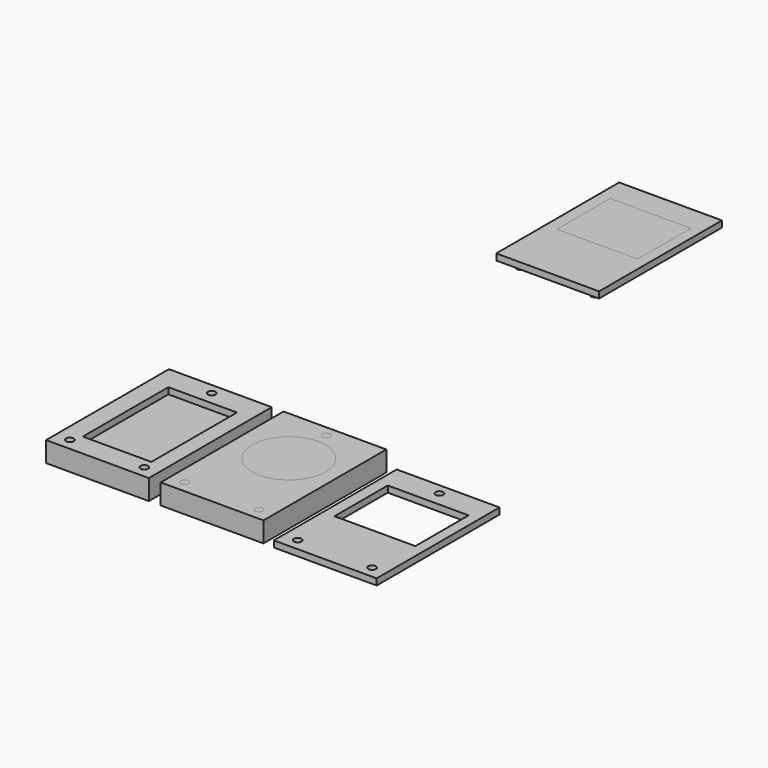
from build123d import *

# Parameters (mm, degrees)
EXTRUDE005_DEPTH = 5
EXTRUDE004_DEPTH = 5
EXTRUDE002_DEPTH = 16
EXTRUDE001_DEPTH = 16
EXTRUDE003_DEPTH = 16
EXTRUDE_DEPTH    = 16
EXTRUDE010_DEPTH = 16
EXTRUDE011_DEPTH = 16
EXTRUDE012_DEPTH = 16
EXTRUDE013_DEPTH = 16
EXTRUDE016_DEPTH = 5
EXTRUDE015_DEPTH = 5
EXTRUDE014_DEPTH = 16
EXTRUDE007_DEPTH = 16
EXTRUDE006_DEPTH = 16
EXTRUDE008_DEPTH = 16
EXTRUDE009_DEPTH = 16
EXTRUDE017_DEPTH = 5
EXTRUDE018_DEPTH = 5
EXTRUDE019_DEPTH = 5
EXTRUDE020_DEPTH = 5
EXTRUDE021_DEPTH = 5
EXTRUDE026_DEPTH = 5
EXTRUDE023_DEPTH = 5
EXTRUDE022_DEPTH = 5
EXTRUDE024_DEPTH = 5
EXTRUDE025_DEPTH = 5


with BuildPart() as extrude005:
    with BuildSketch(Plane(origin=(49.925551, -527.935599, 0), x_dir=(0, -1, 0), z_dir=(0, 0, -1))):
        with BuildLine():
            add(Edge.make_bspline(
                [(-42.137909, 27.028042), (-42.137909, -27.028042)],
                knots=[0, 0, 191.537306, 191.537306], degree=1))
            add(Edge.make_bspline(
                [(-42.137909, -27.028042), (42.137909, -27.028042)],
                knots=[0, 0, 298.6151, 298.6151], degree=1))
            add(Edge.make_bspline(
                [(42.137909, -27.028042), (42.137909, 27.028042)],
                knots=[0, 0, 191.537306, 191.537306], degree=1))
            add(Edge.make_bspline(
                [(42.137909, 27.028042), (-42.137909, 27.028042)],
                knots=[0, 0, 298.6151, 298.6151], degree=1))
        make_face()
    extrude(amount=-EXTRUDE005_DEPTH)


with BuildPart() as extrude004:
    with BuildSketch(Plane(origin=(49.925551, -527.935599, 0), x_dir=(0, -1, 0), z_dir=(0, 0, -1))):
        with BuildLine():
            add(Edge.make_bspline(
                [(-42.137909, 27.028042), (-42.137909, -27.028042)],
                knots=[0, 0, 191.537306, 191.537306], degree=1))
            add(Edge.make_bspline(
                [(-42.137909, -27.028042), (42.137909, -27.028042)],
                knots=[0, 0, 298.6151, 298.6151], degree=1))
            add(Edge.make_bspline(
                [(42.137909, -27.028042), (42.137909, 27.028042)],
                knots=[0, 0, 191.537306, 191.537306], degree=1))
            add(Edge.make_bspline(
                [(42.137909, 27.028042), (-42.137909, 27.028042)],
                knots=[0, 0, 298.6151, 298.6151], degree=1))
        make_face()
    extrude(amount=-EXTRUDE004_DEPTH)


with BuildPart() as extrude004_1:
    # Extrude004 placement: moved
    add(extrude004.part.moved(Location((0, 0, 11))))


with BuildPart() as extrude002:
    # path3023_81_4 → Extrude002 (new body)
    with BuildSketch(Plane(origin=(78.088484, -578.441793, 0), x_dir=(0, -1, 0), z_dir=(0, 0, -1))):
        with BuildLine():
            add(Edge.make_bspline(
                [(-3.023292, 1e-06), (-3.023292, -1.669718), (-1.669717, -3.023291), (0, -3.023291)],
                knots=[0, 0, 0, 0, 1, 1, 1, 1], degree=3))
            add(Edge.make_bspline(
                [(0, -3.023291), (1.669719, -3.023291), (3.023292, -1.669718), (3.023292, 1e-06)],
                knots=[0, 0, 0, 0, 1, 1, 1, 1], degree=3))
            add(Edge.make_bspline(
                [(3.023292, 1e-06), (3.023292, 1.669718), (1.669719, 3.023291), (0, 3.023291)],
                knots=[0, 0, 0, 0, 1, 1, 1, 1], degree=3))
            add(Edge.make_bspline(
                [(0, 3.023291), (-1.669717, 3.023291), (-3.023292, 1.669718), (-3.023292, 1e-06)],
                knots=[0, 0, 0, 0, 1, 1, 1, 1], degree=3))
        make_face()
    extrude(amount=-EXTRUDE002_DEPTH)


with BuildPart() as fusion:
    # path3023_81 → Extrude001 (new body)
    with BuildSketch(Plane(origin=(19.461192, -578.441793, 0), x_dir=(0, -1, 0), z_dir=(0, 0, -1))):
        with BuildLine():
            add(Edge.make_bspline(
                [(-3.023292, 1e-06), (-3.023292, -1.669718), (-1.669717, -3.023291), (0, -3.023291)],
                knots=[0, 0, 0, 0, 1, 1, 1, 1], degree=3))
            add(Edge.make_bspline(
                [(0, -3.023291), (1.669719, -3.023291), (3.023292, -1.669718), (3.023292, 1e-06)],
                knots=[0, 0, 0, 0, 1, 1, 1, 1], degree=3))
            add(Edge.make_bspline(
                [(3.023292, 1e-06), (3.023292, 1.669718), (1.669719, 3.023291), (0, 3.023291)],
                knots=[0, 0, 0, 0, 1, 1, 1, 1], degree=3))
            add(Edge.make_bspline(
                [(0, 3.023291), (-1.669717, 3.023291), (-3.023292, 1.669718), (-3.023292, 1e-06)],
                knots=[0, 0, 0, 0, 1, 1, 1, 1], degree=3))
        make_face()
    extrude(amount=-EXTRUDE001_DEPTH)

    # Fusion: union Extrude002
    add(extrude002.part)


with BuildPart() as fusion001:
    # path3023_81_8 → Extrude003 (new body)
    with BuildSketch(Plane(origin=(48.708925, -475.380728, 0), x_dir=(0, -1, 0), z_dir=(0, 0, -1))):
        with BuildLine():
            add(Edge.make_bspline(
                [(-3.023292, 1e-06), (-3.023292, -1.669718), (-1.669717, -3.023291), (0, -3.023291)],
                knots=[0, 0, 0, 0, 1, 1, 1, 1], degree=3))
            add(Edge.make_bspline(
                [(0, -3.023291), (1.669719, -3.023291), (3.023292, -1.669718), (3.023292, 1e-06)],
                knots=[0, 0, 0, 0, 1, 1, 1, 1], degree=3))
            add(Edge.make_bspline(
                [(3.023292, 1e-06), (3.023292, 1.669718), (1.669719, 3.023291), (0, 3.023291)],
                knots=[0, 0, 0, 0, 1, 1, 1, 1], degree=3))
            add(Edge.make_bspline(
                [(0, 3.023291), (-1.669717, 3.023291), (-3.023292, 1.669718), (-3.023292, 1e-06)],
                knots=[0, 0, 0, 0, 1, 1, 1, 1], degree=3))
        make_face()
    extrude(amount=-EXTRUDE003_DEPTH)

    # Fusion001: union Fusion
    add(fusion.part)


with BuildPart() as base:
    with BuildSketch(Plane(origin=(48.690025, -527.325026, 0), x_dir=(0, -1, 0), z_dir=(0, 0, -1))):
        with BuildLine():
            add(Edge.make_bspline(
                [(60.488886, 40.488881), (-60.488886, 40.488881)],
                knots=[0, 0, 428.6614, 428.6614], degree=1))
            add(Edge.make_bspline(
                [(-60.488886, 40.488881), (-60.488886, -40.488881)],
                knots=[0, 0, 286.92908, 286.92908], degree=1))
            add(Edge.make_bspline(
                [(-60.488886, -40.488881), (60.488886, -40.488881)],
                knots=[0, 0, 428.6614, 428.6614], degree=1))
            add(Edge.make_bspline(
                [(60.488886, -40.488881), (60.488886, 40.488881)],
                knots=[0, 0, 286.92908, 286.92908], degree=1))
        make_face()
    extrude(amount=-EXTRUDE_DEPTH)

    # Cut: cut Fusion001
    add(fusion001.part, mode=Mode.SUBTRACT)

    # Cut001: cut Extrude004
    add(extrude004_1.part, mode=Mode.SUBTRACT)


with BuildPart() as extrude010:
    # path3023_81_2 → Extrude010 (new body)
    with BuildSketch(Plane(origin=(109.738414, -578.441788, 0), x_dir=(0, -1, 0), z_dir=(0, 0, -1))):
        with BuildLine():
            add(Edge.make_bspline(
                [(-3.023292, 1e-06), (-3.023292, -3.023291), (0, -3.023291)],
                knots=[0, 0, 0, 1.570796, 1.570796, 1.570796], degree=2, weights=[1, 0.707107, 1]))
            add(Edge.make_bspline(
                [(0, -3.023291), (3.023292, -3.023291), (3.023292, 1e-06)],
                knots=[0, 0, 0, 1.570796, 1.570796, 1.570796], degree=2, weights=[1, 0.707107, 1]))
            add(Edge.make_bspline(
                [(3.023292, 1e-06), (3.02329, 3.023291), (0, 3.023291)],
                knots=[0, 0, 0, 1.570796, 1.570796, 1.570796], degree=2, weights=[1, 0.707107, 1]))
            add(Edge.make_bspline(
                [(0, 3.023291), (-3.02329, 3.023291), (-3.023292, 1e-06)],
                knots=[0, 0, 0, 1.570796, 1.570796, 1.570796], degree=2, weights=[1, 0.707107, 1]))
        make_face()
    extrude(amount=-EXTRUDE010_DEPTH)


with BuildPart() as extrude011:
    # path3023_81_4_9 → Extrude011 (new body)
    with BuildSketch(Plane(origin=(168.365706, -578.441788, 0), x_dir=(0, -1, 0), z_dir=(0, 0, -1))):
        with BuildLine():
            add(Edge.make_bspline(
                [(-3.023292, 1e-06), (-3.023292, -3.023291), (0, -3.023291)],
                knots=[0, 0, 0, 1.570796, 1.570796, 1.570796], degree=2, weights=[1, 0.707107, 1]))
            add(Edge.make_bspline(
                [(0, -3.023291), (3.023292, -3.023291), (3.023292, 1e-06)],
                knots=[0, 0, 0, 1.570796, 1.570796, 1.570796], degree=2, weights=[1, 0.707107, 1]))
            add(Edge.make_bspline(
                [(3.023292, 1e-06), (3.02329, 3.023291), (0, 3.023291)],
                knots=[0, 0, 0, 1.570796, 1.570796, 1.570796], degree=2, weights=[1, 0.707107, 1]))
            add(Edge.make_bspline(
                [(0, 3.023291), (-3.02329, 3.023291), (-3.023292, 1e-06)],
                knots=[0, 0, 0, 1.570796, 1.570796, 1.570796], degree=2, weights=[1, 0.707107, 1]))
        make_face()
    extrude(amount=-EXTRUDE011_DEPTH)


with BuildPart() as extrude012:
    # path3023_81_8_6 → Extrude012 (new body)
    with BuildSketch(Plane(origin=(138.986161, -475.380725, 0), x_dir=(0, -1, 0), z_dir=(0, 0, -1))):
        with BuildLine():
            add(Edge.make_bspline(
                [(-3.023292, 1e-06), (-3.023292, -3.023291), (0, -3.023291)],
                knots=[0, 0, 0, 1.570796, 1.570796, 1.570796], degree=2, weights=[1, 0.707107, 1]))
            add(Edge.make_bspline(
                [(0, -3.023291), (3.023292, -3.023291), (3.023292, 1e-06)],
                knots=[0, 0, 0, 1.570796, 1.570796, 1.570796], degree=2, weights=[1, 0.707107, 1]))
            add(Edge.make_bspline(
                [(3.023292, 1e-06), (3.02329, 3.023291), (0, 3.023291)],
                knots=[0, 0, 0, 1.570796, 1.570796, 1.570796], degree=2, weights=[1, 0.707107, 1]))
            add(Edge.make_bspline(
                [(0, 3.023291), (-3.02329, 3.023291), (-3.023292, 1e-06)],
                knots=[0, 0, 0, 1.570796, 1.570796, 1.570796], degree=2, weights=[1, 0.707107, 1]))
        make_face()
    extrude(amount=-EXTRUDE012_DEPTH)


with BuildPart() as extrude013:
    with BuildSketch(Plane(origin=(138.967264, -527.325043, 0), x_dir=(0, -1, 0), z_dir=(0, 0, -1))):
        with BuildLine():
            add(Edge.make_bspline(
                [(60.488884, 40.488881), (-60.488884, 40.488881)],
                knots=[0, 0, 428.66138, 428.66138], degree=1))
            add(Edge.make_bspline(
                [(-60.488884, 40.488881), (-60.488884, -40.488881)],
                knots=[0, 0, 286.92908, 286.92908], degree=1))
            add(Edge.make_bspline(
                [(-60.488884, -40.488881), (60.488884, -40.488881)],
                knots=[0, 0, 428.66138, 428.66138], degree=1))
            add(Edge.make_bspline(
                [(60.488884, -40.488881), (60.488884, 40.488881)],
                knots=[0, 0, 286.92908, 286.92908], degree=1))
        make_face()
    extrude(amount=-EXTRUDE013_DEPTH)


with BuildPart() as extrude016:
    # path2987_5_4_1_3 → Extrude016 (new body)
    with BuildSketch(Plane(origin=(140.017543, -513.55047, 0), x_dir=(0, -1, 0), z_dir=(0, 0, -1))):
        with BuildLine():
            add(Edge.make_bspline(
                [(-28.869968, 2e-06), (-28.86997, -28.869967), (-2e-06, -28.869968)],
                knots=[0, 0, 0, 1.570796, 1.570796, 1.570796], degree=2, weights=[1, 0.707107, 1]))
            add(Edge.make_bspline(
                [(-2e-06, -28.869968), (28.86997, -28.86997), (28.869968, 2e-06)],
                knots=[0, 0, 0, 1.570796, 1.570796, 1.570796], degree=2, weights=[1, 0.707107, 1]))
            add(Edge.make_bspline(
                [(28.869968, 2e-06), (28.869967, 28.86997), (-2e-06, 28.869968)],
                knots=[0, 0, 0, 1.570796, 1.570796, 1.570796], degree=2, weights=[1, 0.707107, 1]))
            add(Edge.make_bspline(
                [(-2e-06, 28.869968), (-28.869967, 28.869967), (-28.869968, 2e-06)],
                knots=[0, 0, 0, 1.570796, 1.570796, 1.570796], degree=2, weights=[1, 0.707107, 1]))
        make_face()
    extrude(amount=-EXTRUDE016_DEPTH)


with BuildPart() as extrude015:
    # path2987_5_4_1_3 → Extrude015 (new body)
    with BuildSketch(Plane(origin=(140.017543, -513.55047, 0), x_dir=(0, -1, 0), z_dir=(0, 0, -1))):
        with BuildLine():
            add(Edge.make_bspline(
                [(-28.869968, 2e-06), (-28.86997, -28.869967), (-2e-06, -28.869968)],
                knots=[0, 0, 0, 1.570796, 1.570796, 1.570796], degree=2, weights=[1, 0.707107, 1]))
            add(Edge.make_bspline(
                [(-2e-06, -28.869968), (28.86997, -28.86997), (28.869968, 2e-06)],
                knots=[0, 0, 0, 1.570796, 1.570796, 1.570796], degree=2, weights=[1, 0.707107, 1]))
            add(Edge.make_bspline(
                [(28.869968, 2e-06), (28.869967, 28.86997), (-2e-06, 28.869968)],
                knots=[0, 0, 0, 1.570796, 1.570796, 1.570796], degree=2, weights=[1, 0.707107, 1]))
            add(Edge.make_bspline(
                [(-2e-06, 28.869968), (-28.869967, 28.869967), (-28.869968, 2e-06)],
                knots=[0, 0, 0, 1.570796, 1.570796, 1.570796], degree=2, weights=[1, 0.707107, 1]))
        make_face()
    extrude(amount=-EXTRUDE015_DEPTH)


with BuildPart() as extrude015_1:
    # Extrude015 placement: moved
    add(extrude015.part.moved(Location((0, 0, 11))))


with BuildPart() as extrude014:
    with BuildSketch(Plane(origin=(140.017543, -513.55047, 0), x_dir=(0, -1, 0), z_dir=(0, 0, -1))):
        with BuildLine():
            add(Edge.make_bspline(
                [(-20.89852, 1e-06), (-20.898521, -20.898518), (-1e-06, -20.89852)],
                knots=[0, 0, 0, 1.570796, 1.570796, 1.570796], degree=2, weights=[1, 0.707107, 1]))
            add(Edge.make_bspline(
                [(-1e-06, -20.89852), (20.898521, -20.898521), (20.89852, 1e-06)],
                knots=[0, 0, 0, 1.570796, 1.570796, 1.570796], degree=2, weights=[1, 0.707107, 1]))
            add(Edge.make_bspline(
                [(20.89852, 1e-06), (20.898518, 20.898521), (-1e-06, 20.89852)],
                knots=[0, 0, 0, 1.570796, 1.570796, 1.570796], degree=2, weights=[1, 0.707107, 1]))
            add(Edge.make_bspline(
                [(-1e-06, 20.89852), (-20.898518, 20.898518), (-20.89852, 1e-06)],
                knots=[0, 0, 0, 1.570796, 1.570796, 1.570796], degree=2, weights=[1, 0.707107, 1]))
        make_face()
    extrude(amount=-EXTRUDE014_DEPTH)


with BuildPart() as extrude007:
    # path3023_81_4_9 → Extrude007 (new body)
    with BuildSketch(Plane(origin=(168.365706, -578.441788, 0), x_dir=(0, -1, 0), z_dir=(0, 0, -1))):
        with BuildLine():
            add(Edge.make_bspline(
                [(-3.023292, 1e-06), (-3.023292, -3.023291), (0, -3.023291)],
                knots=[0, 0, 0, 1.570796, 1.570796, 1.570796], degree=2, weights=[1, 0.707107, 1]))
            add(Edge.make_bspline(
                [(0, -3.023291), (3.023292, -3.023291), (3.023292, 1e-06)],
                knots=[0, 0, 0, 1.570796, 1.570796, 1.570796], degree=2, weights=[1, 0.707107, 1]))
            add(Edge.make_bspline(
                [(3.023292, 1e-06), (3.02329, 3.023291), (0, 3.023291)],
                knots=[0, 0, 0, 1.570796, 1.570796, 1.570796], degree=2, weights=[1, 0.707107, 1]))
            add(Edge.make_bspline(
                [(0, 3.023291), (-3.02329, 3.023291), (-3.023292, 1e-06)],
                knots=[0, 0, 0, 1.570796, 1.570796, 1.570796], degree=2, weights=[1, 0.707107, 1]))
        make_face()
    extrude(amount=-EXTRUDE007_DEPTH)


with BuildPart() as fusion002:
    # path3023_81_2 → Extrude006 (new body)
    with BuildSketch(Plane(origin=(109.738414, -578.441788, 0), x_dir=(0, -1, 0), z_dir=(0, 0, -1))):
        with BuildLine():
            add(Edge.make_bspline(
                [(-3.023292, 1e-06), (-3.023292, -3.023291), (0, -3.023291)],
                knots=[0, 0, 0, 1.570796, 1.570796, 1.570796], degree=2, weights=[1, 0.707107, 1]))
            add(Edge.make_bspline(
                [(0, -3.023291), (3.023292, -3.023291), (3.023292, 1e-06)],
                knots=[0, 0, 0, 1.570796, 1.570796, 1.570796], degree=2, weights=[1, 0.707107, 1]))
            add(Edge.make_bspline(
                [(3.023292, 1e-06), (3.02329, 3.023291), (0, 3.023291)],
                knots=[0, 0, 0, 1.570796, 1.570796, 1.570796], degree=2, weights=[1, 0.707107, 1]))
            add(Edge.make_bspline(
                [(0, 3.023291), (-3.02329, 3.023291), (-3.023292, 1e-06)],
                knots=[0, 0, 0, 1.570796, 1.570796, 1.570796], degree=2, weights=[1, 0.707107, 1]))
        make_face()
    extrude(amount=-EXTRUDE006_DEPTH)

    # Fusion002: union Extrude007
    add(extrude007.part)


with BuildPart() as fusion003:
    # path3023_81_8_6 → Extrude008 (new body)
    with BuildSketch(Plane(origin=(138.986161, -475.380725, 0), x_dir=(0, -1, 0), z_dir=(0, 0, -1))):
        with BuildLine():
            add(Edge.make_bspline(
                [(-3.023292, 1e-06), (-3.023292, -3.023291), (0, -3.023291)],
                knots=[0, 0, 0, 1.570796, 1.570796, 1.570796], degree=2, weights=[1, 0.707107, 1]))
            add(Edge.make_bspline(
                [(0, -3.023291), (3.023292, -3.023291), (3.023292, 1e-06)],
                knots=[0, 0, 0, 1.570796, 1.570796, 1.570796], degree=2, weights=[1, 0.707107, 1]))
            add(Edge.make_bspline(
                [(3.023292, 1e-06), (3.02329, 3.023291), (0, 3.023291)],
                knots=[0, 0, 0, 1.570796, 1.570796, 1.570796], degree=2, weights=[1, 0.707107, 1]))
            add(Edge.make_bspline(
                [(0, 3.023291), (-3.02329, 3.023291), (-3.023292, 1e-06)],
                knots=[0, 0, 0, 1.570796, 1.570796, 1.570796], degree=2, weights=[1, 0.707107, 1]))
        make_face()
    extrude(amount=-EXTRUDE008_DEPTH)

    # Fusion003: union Fusion002
    add(fusion002.part)


with BuildPart() as middle:
    with BuildSketch(Plane(origin=(138.967264, -527.325043, 0), x_dir=(0, -1, 0), z_dir=(0, 0, -1))):
        with BuildLine():
            add(Edge.make_bspline(
                [(60.488884, 40.488881), (-60.488884, 40.488881)],
                knots=[0, 0, 428.66138, 428.66138], degree=1))
            add(Edge.make_bspline(
                [(-60.488884, 40.488881), (-60.488884, -40.488881)],
                knots=[0, 0, 286.92908, 286.92908], degree=1))
            add(Edge.make_bspline(
                [(-60.488884, -40.488881), (60.488884, -40.488881)],
                knots=[0, 0, 428.66138, 428.66138], degree=1))
            add(Edge.make_bspline(
                [(60.488884, -40.488881), (60.488884, 40.488881)],
                knots=[0, 0, 286.92908, 286.92908], degree=1))
        make_face()
    extrude(amount=-EXTRUDE009_DEPTH)

    # Cut002: cut Fusion003
    add(fusion003.part, mode=Mode.SUBTRACT)

    # Cut003: cut Extrude014
    add(extrude014.part, mode=Mode.SUBTRACT)

    # Cut004: cut Extrude015
    add(extrude015_1.part, mode=Mode.SUBTRACT)


with BuildPart() as extrude017:
    with BuildSketch(Plane(origin=(67.130731, -194.739681, 0), x_dir=(0, -1, 0), z_dir=(0, 0, -1))):
        with BuildLine():
            add(Edge.make_bspline(
                [(3.023292, 0), (3.023292, -3.023292), (0, -3.023292), (-3.023292, -3.023292), (-3.023292, 0)],
                knots=[3.141593, 3.141593, 3.141593, 4.712389, 4.712389, 6.283185, 6.283185, 6.283185], degree=2, weights=[1, 0.707107, 1, 0.707107, 1]))
            add(Edge.make_bspline(
                [(-3.023292, 0), (-3.023292, 3.023292), (0, 3.023292), (3.023292, 3.023292), (3.023292, 0)],
                knots=[0, 0, 0, 1.570796, 1.570796, 3.141593, 3.141593, 3.141593], degree=2, weights=[1, 0.707107, 1, 0.707107, 1]))
        make_face()
    extrude(amount=EXTRUDE017_DEPTH)


with BuildPart() as extrude018:
    with BuildSketch(Plane(origin=(125.758023, -194.739681, 0), x_dir=(0, -1, 0), z_dir=(0, 0, -1))):
        with BuildLine():
            add(Edge.make_bspline(
                [(3.023292, 0), (3.023292, -3.023292), (0, -3.023292), (-3.023292, -3.023292), (-3.023292, 0)],
                knots=[3.141593, 3.141593, 3.141593, 4.712389, 4.712389, 6.283185, 6.283185, 6.283185], degree=2, weights=[1, 0.707107, 1, 0.707107, 1]))
            add(Edge.make_bspline(
                [(-3.023292, 0), (-3.023292, 3.023292), (0, 3.023292), (3.023292, 3.023292), (3.023292, 0)],
                knots=[0, 0, 0, 1.570796, 1.570796, 3.141593, 3.141593, 3.141593], degree=2, weights=[1, 0.707107, 1, 0.707107, 1]))
        make_face()
    extrude(amount=EXTRUDE018_DEPTH)


with BuildPart() as extrude019:
    with BuildSketch(Plane(origin=(96.378478, -91.678616, 0), x_dir=(0, -1, 0), z_dir=(0, 0, -1))):
        with BuildLine():
            add(Edge.make_bspline(
                [(3.023292, 0), (3.023292, -3.023292), (0, -3.023292), (-3.023292, -3.023292), (-3.023292, 0)],
                knots=[3.141593, 3.141593, 3.141593, 4.712389, 4.712389, 6.283185, 6.283185, 6.283185], degree=2, weights=[1, 0.707107, 1, 0.707107, 1]))
            add(Edge.make_bspline(
                [(-3.023292, 0), (-3.023292, 3.023292), (0, 3.023292), (3.023292, 3.023292), (3.023292, 0)],
                knots=[0, 0, 0, 1.570796, 1.570796, 3.141593, 3.141593, 3.141593], degree=2, weights=[1, 0.707107, 1, 0.707107, 1]))
        make_face()
    extrude(amount=EXTRUDE019_DEPTH)


with BuildPart() as extrude020:
    with BuildSketch(Plane(origin=(96.359585, -143.622928, 0), x_dir=(0, -1, 0), z_dir=(0, 0, -1))):
        with BuildLine():
            add(Edge.make_bspline(
                [(60.488884, 40.488881), (-60.488884, 40.488881)],
                knots=[0, 0, 428.66138, 428.66138], degree=1))
            add(Edge.make_bspline(
                [(-60.488884, 40.488881), (-60.488884, -40.488881)],
                knots=[0, 0, 286.92908, 286.92908], degree=1))
            add(Edge.make_bspline(
                [(-60.488884, -40.488881), (60.488884, -40.488881)],
                knots=[0, 0, 428.66138, 428.66138], degree=1))
            add(Edge.make_bspline(
                [(60.488884, -40.488881), (60.488884, 40.488881)],
                knots=[0, 0, 286.92908, 286.92908], degree=1))
        make_face()
    extrude(amount=-EXTRUDE020_DEPTH)


with BuildPart() as extrude021:
    with BuildSketch(Plane(origin=(96.75655, -129.484847, 0), x_dir=(0, -1, 0), z_dir=(0, 0, -1))):
        with BuildLine():
            add(Edge.make_bspline(
                [(26.232779, 31.84628), (-26.232779, 31.84628)],
                knots=[0, 0, 185.90158, 185.90158], degree=1))
            add(Edge.make_bspline(
                [(-26.232779, 31.84628), (-26.232779, -31.84628)],
                knots=[0, 0, 225.6823, 225.6823], degree=1))
            add(Edge.make_bspline(
                [(-26.232779, -31.84628), (26.232779, -31.84628)],
                knots=[0, 0, 185.90158, 185.90158], degree=1))
            add(Edge.make_bspline(
                [(26.232779, -31.84628), (26.232779, 31.84628)],
                knots=[0, 0, 225.6823, 225.6823], degree=1))
        make_face()
    extrude(amount=-EXTRUDE021_DEPTH)


with BuildPart() as extrude026:
    with BuildSketch(Plane(origin=(96.75655, -129.484847, 0), x_dir=(0, -1, 0), z_dir=(0, 0, -1))):
        with BuildLine():
            add(Edge.make_bspline(
                [(26.232779, 31.84628), (-26.232779, 31.84628)],
                knots=[0, 0, 185.90158, 185.90158], degree=1))
            add(Edge.make_bspline(
                [(-26.232779, 31.84628), (-26.232779, -31.84628)],
                knots=[0, 0, 225.6823, 225.6823], degree=1))
            add(Edge.make_bspline(
                [(-26.232779, -31.84628), (26.232779, -31.84628)],
                knots=[0, 0, 185.90158, 185.90158], degree=1))
            add(Edge.make_bspline(
                [(26.232779, -31.84628), (26.232779, 31.84628)],
                knots=[0, 0, 225.6823, 225.6823], degree=1))
        make_face()
    extrude(amount=-EXTRUDE026_DEPTH)


with BuildPart() as extrude023:
    with BuildSketch(Plane(origin=(125.758023, -194.739681, 0), x_dir=(0, -1, 0), z_dir=(0, 0, -1))):
        with BuildLine():
            add(Edge.make_bspline(
                [(3.023292, 0), (3.023292, -3.023292), (0, -3.023292), (-3.023292, -3.023292), (-3.023292, 0)],
                knots=[3.141593, 3.141593, 3.141593, 4.712389, 4.712389, 6.283185, 6.283185, 6.283185], degree=2, weights=[1, 0.707107, 1, 0.707107, 1]))
            add(Edge.make_bspline(
                [(-3.023292, 0), (-3.023292, 3.023292), (0, 3.023292), (3.023292, 3.023292), (3.023292, 0)],
                knots=[0, 0, 0, 1.570796, 1.570796, 3.141593, 3.141593, 3.141593], degree=2, weights=[1, 0.707107, 1, 0.707107, 1]))
        make_face()
    extrude(amount=EXTRUDE023_DEPTH)


with BuildPart() as fusion004:
    with BuildSketch(Plane(origin=(67.130731, -194.739681, 0), x_dir=(0, -1, 0), z_dir=(0, 0, -1))):
        with BuildLine():
            add(Edge.make_bspline(
                [(3.023292, 0), (3.023292, -3.023292), (0, -3.023292), (-3.023292, -3.023292), (-3.023292, 0)],
                knots=[3.141593, 3.141593, 3.141593, 4.712389, 4.712389, 6.283185, 6.283185, 6.283185], degree=2, weights=[1, 0.707107, 1, 0.707107, 1]))
            add(Edge.make_bspline(
                [(-3.023292, 0), (-3.023292, 3.023292), (0, 3.023292), (3.023292, 3.023292), (3.023292, 0)],
                knots=[0, 0, 0, 1.570796, 1.570796, 3.141593, 3.141593, 3.141593], degree=2, weights=[1, 0.707107, 1, 0.707107, 1]))
        make_face()
    extrude(amount=EXTRUDE022_DEPTH)

    # Fusion004: union Extrude023
    add(extrude023.part)


with BuildPart() as fusion005:
    with BuildSketch(Plane(origin=(96.378478, -91.678616, 0), x_dir=(0, -1, 0), z_dir=(0, 0, -1))):
        with BuildLine():
            add(Edge.make_bspline(
                [(3.023292, 0), (3.023292, -3.023292), (0, -3.023292), (-3.023292, -3.023292), (-3.023292, 0)],
                knots=[3.141593, 3.141593, 3.141593, 4.712389, 4.712389, 6.283185, 6.283185, 6.283185], degree=2, weights=[1, 0.707107, 1, 0.707107, 1]))
            add(Edge.make_bspline(
                [(-3.023292, 0), (-3.023292, 3.023292), (0, 3.023292), (3.023292, 3.023292), (3.023292, 0)],
                knots=[0, 0, 0, 1.570796, 1.570796, 3.141593, 3.141593, 3.141593], degree=2, weights=[1, 0.707107, 1, 0.707107, 1]))
        make_face()
    extrude(amount=EXTRUDE024_DEPTH)

    # Fusion005: union Fusion004
    add(fusion004.part)


with BuildPart() as fusion005_1:
    # Fusion005 placement: moved
    add(fusion005.part.moved(Location((0, 0, 5))))


with BuildPart() as top:
    with BuildSketch(Plane(origin=(96.359585, -143.622928, 0), x_dir=(0, -1, 0), z_dir=(0, 0, -1))):
        with BuildLine():
            add(Edge.make_bspline(
                [(60.488884, 40.488881), (-60.488884, 40.488881)],
                knots=[0, 0, 428.66138, 428.66138], degree=1))
            add(Edge.make_bspline(
                [(-60.488884, 40.488881), (-60.488884, -40.488881)],
                knots=[0, 0, 286.92908, 286.92908], degree=1))
            add(Edge.make_bspline(
                [(-60.488884, -40.488881), (60.488884, -40.488881)],
                knots=[0, 0, 428.66138, 428.66138], degree=1))
            add(Edge.make_bspline(
                [(60.488884, -40.488881), (60.488884, 40.488881)],
                knots=[0, 0, 286.92908, 286.92908], degree=1))
        make_face()
    extrude(amount=-EXTRUDE025_DEPTH)

    # Cut005: cut Fusion005
    add(fusion005_1.part, mode=Mode.SUBTRACT)

    # Cut006: cut Extrude026
    add(extrude026.part, mode=Mode.SUBTRACT)


with BuildPart() as top_1:
    # Cut006 placement: moved
    add(top.part.moved(Location((132, -384, 0))))


solid = Compound([extrude005.part, base.part, extrude010.part, extrude011.part, extrude012.part, extrude013.part, extrude016.part, middle.part, extrude017.part, extrude018.part, extrude019.part, extrude020.part, extrude021.part, top_1.part])
